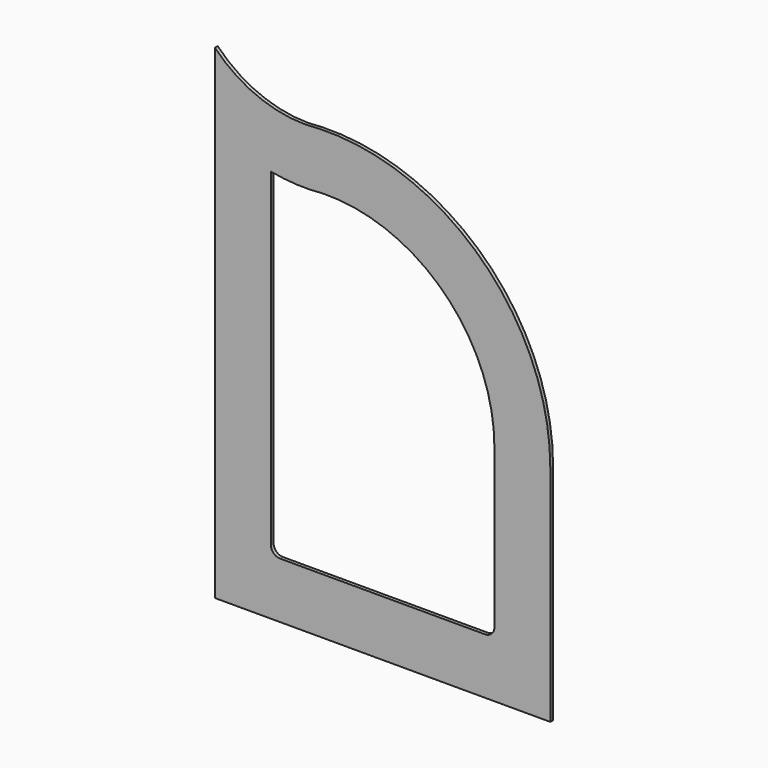
from build123d import *

# Parameters (mm, degrees)
F1_DEPTH = 4.7498


with BuildPart() as f1:
    # F0 (on Front) → F1 (new body)
    with BuildSketch(Plane.XZ):
        with BuildLine():
            Line((304.8, -304.8), (304.8, 0))
            ThreePointArc((304.8, 0), (211.944045, 219.049679), (-10.047519, 304.63435))
            ThreePointArc((-10.047519, 304.63435), (-87.131949, 313.614973), (-152.4, 355.6))
            Line((-152.4, 355.6), (-152.4, -304.8))
            Line((-152.4, -304.8), (0, -304.8))
            Line((0, -304.8), (304.8, -304.8))
        make_face()
        with BuildLine():
            ThreePointArc((-5.017896, 228.544921), (159.860672, 163.409074), (228.6, 0))
            Line((228.6, 0), (228.6, -215.9))
            ThreePointArc((228.6, -215.9), (224.880256, -224.880256), (215.9, -228.6))
            Line((215.9, -228.6), (0, -228.6))
            Line((0, -228.6), (-63.5, -228.6))
            ThreePointArc((-63.5, -228.6), (-72.480256, -224.880256), (-76.2, -215.9))
            Line((-76.2, -215.9), (-76.2, 231.850936))
            ThreePointArc((-76.2, 231.850936), (-40.728308, 227.627984), (-5.017896, 228.544921))
        make_face(mode=Mode.SUBTRACT)
        with BuildLine():
            Line((304.8, -304.8), (304.8, 0))
            ThreePointArc((304.8, 0), (211.944045, 219.049679), (-10.047519, 304.63435))
            ThreePointArc((-10.047519, 304.63435), (-87.131949, 313.614973), (-152.4, 355.6))
            Line((-152.4, 355.6), (-152.4, -304.8))
            Line((-152.4, -304.8), (0, -304.8))
            Line((0, -304.8), (304.8, -304.8))
        make_face()
        with BuildLine():
            ThreePointArc((-5.017896, 228.544921), (159.860672, 163.409074), (228.6, 0))
            Line((228.6, 0), (228.6, -215.9))
            ThreePointArc((228.6, -215.9), (224.880256, -224.880256), (215.9, -228.6))
            Line((215.9, -228.6), (0, -228.6))
            Line((0, -228.6), (-63.5, -228.6))
            ThreePointArc((-63.5, -228.6), (-72.480256, -224.880256), (-76.2, -215.9))
            Line((-76.2, -215.9), (-76.2, 231.850936))
            ThreePointArc((-76.2, 231.850936), (-40.728308, 227.627984), (-5.017896, 228.544921))
        make_face(mode=Mode.SUBTRACT)
    extrude(amount=F1_DEPTH)


solid = f1.part
